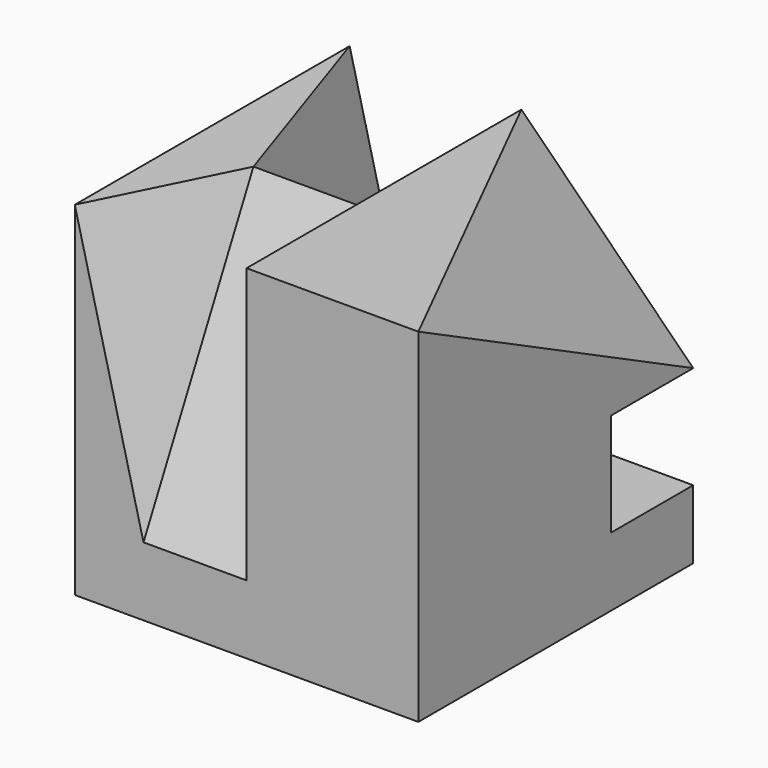
from build123d import *

# Parameters (mm, degrees)
F0_W      = 50
F0_H      = 50
F1_DEPTH  = 50
F3_W      = 15
F3_H      = 20
F4_W      = 15
F4_H      = 35.264277
F3_H_2    = 30
F15_DEPTH = 15


with BuildPart() as f1:
    # F0 (on Top) → F1 (new body)
    with BuildSketch(Plane.XY):
        with Locations((25, 25)):
            Rectangle(F0_W, F0_H)
    extrude(amount=F1_DEPTH)

    # F6: sweep along a path in F5
    with BuildLine(Plane.YZ.offset(50)) as f6_path:
        Line((0, 10), (20, 50))
    # F3 (on face) + F4 (on face) → F6 (sweep, cut)
    with BuildSketch(Plane.XY.offset(50)):
        with Locations((17.5, 10)):
            Rectangle(F3_W, F3_H)
    with BuildSketch(Plane.XZ):
        with Locations((17.5, 32.367862)):
            Rectangle(F4_W, F4_H)
    sweep(path=f6_path.line, mode=Mode.SUBTRACT)

    # F8: sweep along a path in F7
    with BuildLine(Plane.YZ.offset(50)) as f8_path:
        Line((50, 10), (20, 50))
    # F3 (on face) → F8 (sweep, cut)
    with BuildSketch(Plane.XY.offset(50)):
        with Locations((17.5, 35)):
            Rectangle(F3_W, F3_H_2)
    sweep(path=f8_path.line, mode=Mode.SUBTRACT)

    # F9: sweep along a path in F5
    with BuildLine(Plane.YZ.offset(50)) as f9_path:
        Line((0, 10), (20, 50))
    # F3 (on face) → F9 (sweep, cut)
    with BuildSketch(Plane.XY.offset(50)):
        Polygon((10, 0), (10, 20), (0, 0), align=None)
    sweep(path=f9_path.line, mode=Mode.SUBTRACT)

    # F10: sweep along a path in F7
    with BuildLine(Plane.YZ.offset(50)) as f10_path:
        Line((50, 10), (20, 50))
    # F3 (on face) → F10 (sweep, cut)
    with BuildSketch(Plane.XY.offset(50)):
        Polygon((10, 50), (0, 50), (10, 20), align=None)
    sweep(path=f10_path.line, mode=Mode.SUBTRACT)

    # F13: sweep along a path in F11
    with BuildLine(Plane.XY.offset(50)) as f13_path:
        Line((25, 50), (50, 0))
    # F12 (on face) → F13 (sweep, cut)
    with BuildSketch(Plane.YZ.offset(50)):
        Polygon((50, 50), (0, 50), (50, 25), align=None)
    sweep(path=f13_path.line, mode=Mode.SUBTRACT)

    # F14 (on face) → F15 (cut)
    with BuildSketch(Plane(origin=(0, 50, 0), x_dir=(-1, 0, 0), z_dir=(0, 1, 0))):
        Polygon((-31.397693, 10), (-50, 25), (-50, 10), align=None)
    extrude(amount=-F15_DEPTH, mode=Mode.SUBTRACT)


solid = f1.part
